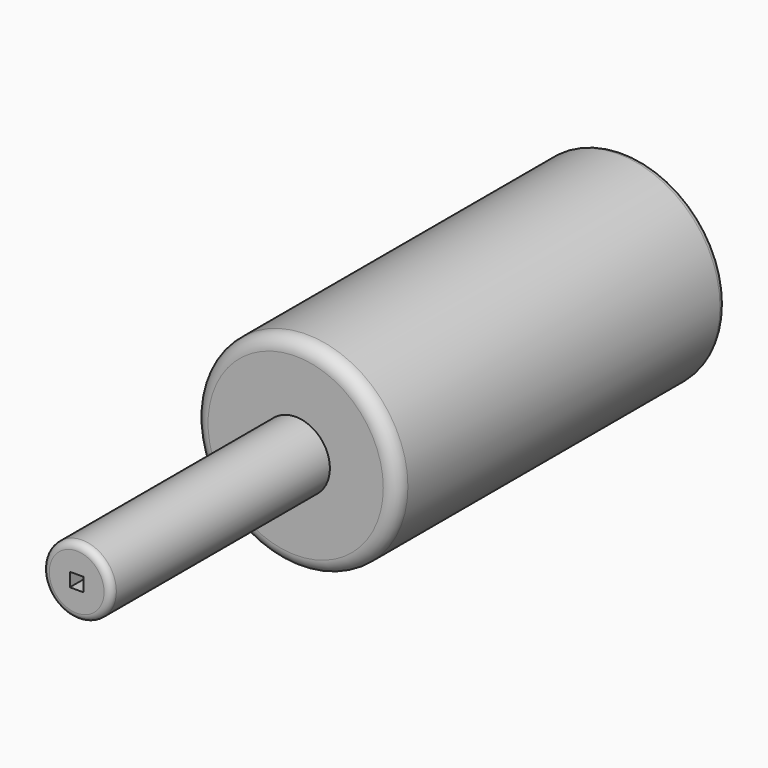
from build123d import *

# Parameters (mm, degrees)
F0_R     = 18.796
F2_DEPTH = 76.2
F1_R     = 6.35
F3_DEPTH = 127
F4_R     = 1.27
F5_W     = 2.54
F5_H     = 2.54
F6_DEPTH = 127
F7_R     = 2.54


with BuildPart() as f2:
    # F0 (on Front) → F2 (new body)
    with BuildSketch(Plane.XZ):
        Circle(F0_R)
    extrude(amount=F2_DEPTH)

    # F1 (on face) → F3 (join)
    with BuildSketch(Plane.XZ):
        Circle(F1_R)
    extrude(amount=F3_DEPTH)

    # F4
    f4_edges = [f2.edges().sort_by_distance(p)[0] for p in [
        (-18.796, 0, 0),
        (-6.35, -127, 0),
    ]]
    fillet(f4_edges, radius=F4_R)

    # F5 (on face) → F6 (cut)
    with BuildSketch(Plane.XZ.offset(127)):
        Rectangle(F5_W, F5_H)
    extrude(amount=-F6_DEPTH, mode=Mode.SUBTRACT)

    # F7
    f7_edges = [f2.edges().sort_by_distance(p)[0] for p in [
        (-18.796, -76.2, 0),
    ]]
    fillet(f7_edges, radius=F7_R)


solid = f2.part
